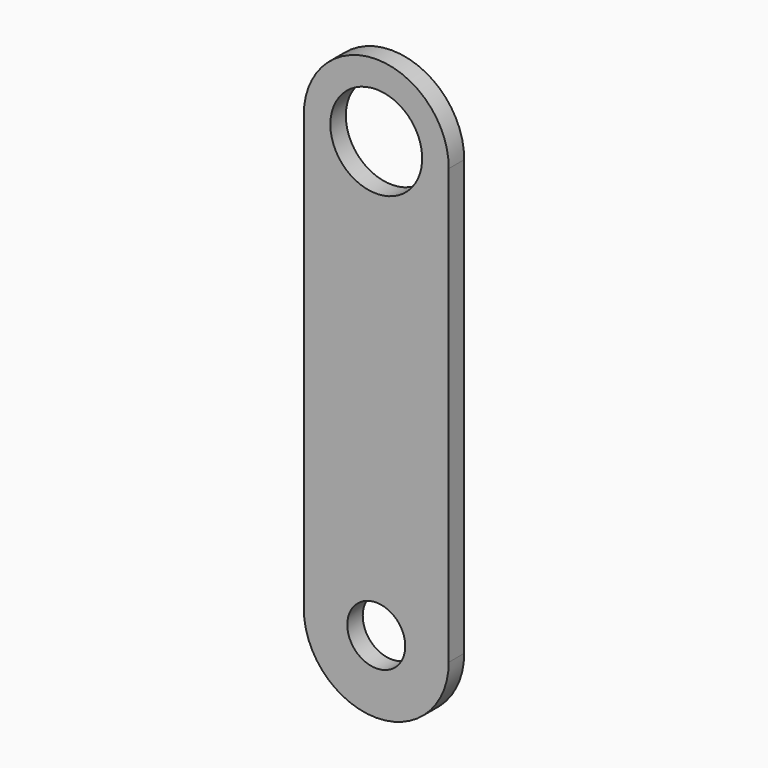
from build123d import *

# Parameters (mm, degrees)
F1_DEPTH = 4
F3_D     = 19
F4_D     = 12


with BuildPart() as f1:
    # F0 (on Front) → F1 (new body)
    with BuildSketch(Plane.XZ):
        with BuildLine():
            Line((15, -53.838078), (15, 36.104428))
            ThreePointArc((15, 36.104428), (0, 51.162033), (-15, 36.104428))
            Line((-15, 36.104428), (-15, -53.838078))
            ThreePointArc((-15, -53.838078), (0, -68.838078), (15, -53.838078))
        make_face()
    extrude(amount=F1_DEPTH)

    # F3 (through all)
    with Locations(Plane.XZ.offset(4)):
        with Locations((0, 36.161922)):
            Hole(F3_D / 2)

    # F4 (through all)
    with Locations(Plane.XZ.offset(4)):
        with Locations((0, -53.838078)):
            Hole(F4_D / 2)


solid = f1.part
